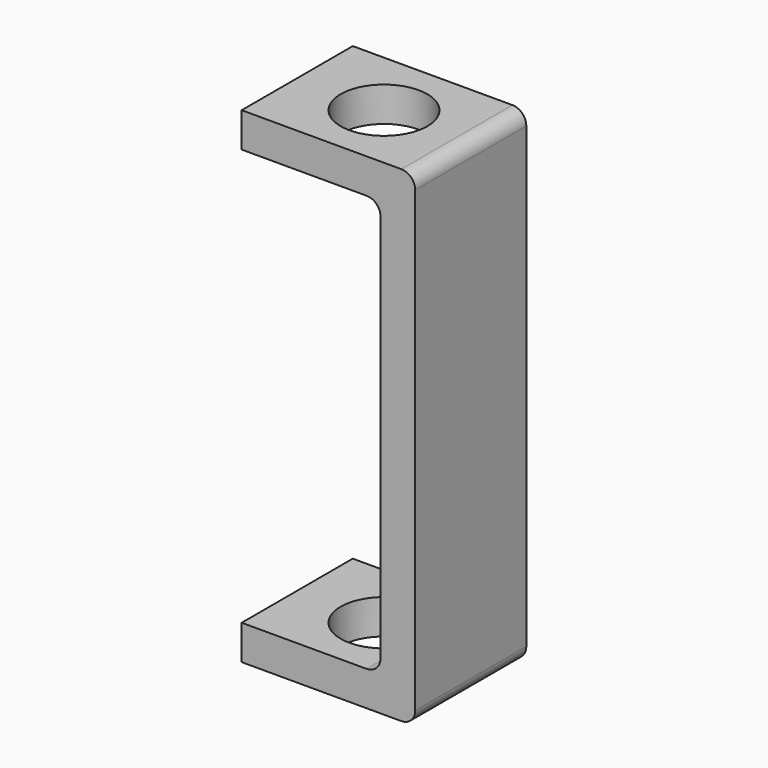
from build123d import *

# Parameters (mm, degrees)
F1_DEPTH = 12.7
F2_R     = 2.54
F3_R     = 7.9375
F4_DEPTH = 127


with BuildPart() as f1:
    # F0 (on Front) → F1 (new body, symmetric)
    with BuildSketch(Plane.XZ):
        Polygon((15.875, 44.45), (-15.875, 44.45), (-15.875, 38.1), (9.525, 38.1), (9.525, -38.1), (-15.875, -38.1), (-15.875, -44.45), (15.875, -44.45), align=None)
    extrude(amount=F1_DEPTH, both=True)

    # F2
    f2_edges = [f1.edges().sort_by_distance(p)[0] for p in [
        (15.875, 0, 44.45),
        (15.875, 0, -44.45),
        (9.525, 0, 38.1),
        (9.525, 0, -38.1),
    ]]
    fillet(f2_edges, radius=F2_R)

    # F3 (on face) → F4 (cut, symmetric)
    with BuildSketch(Plane.XY.offset(44.45)):
        Circle(F3_R)
    extrude(amount=F4_DEPTH, both=True, mode=Mode.SUBTRACT)


solid = f1.part
